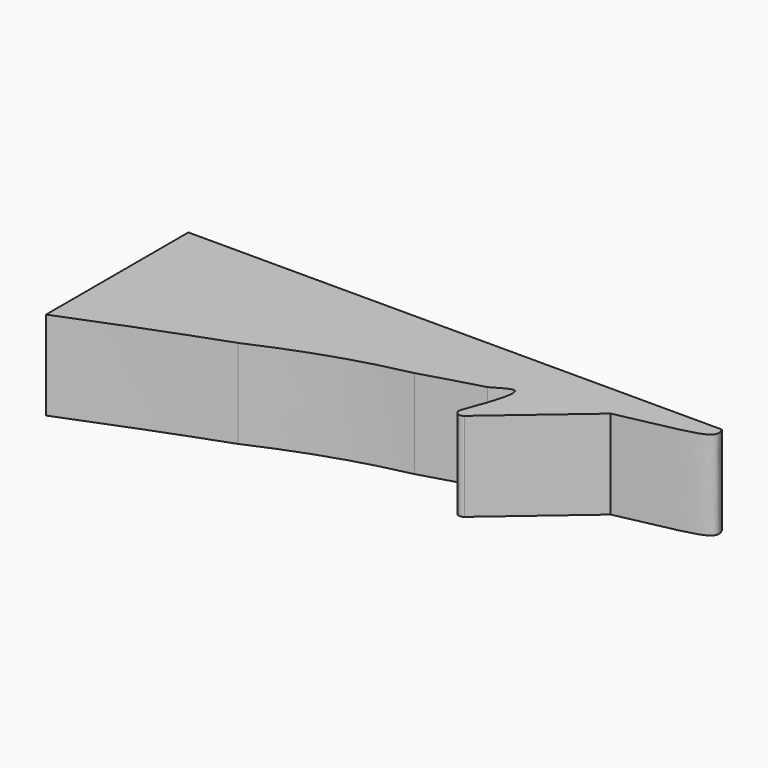
from build123d import *

# Parameters (mm, degrees)
F1_DEPTH = 5
F2_R     = 0.3


with BuildPart() as f1:
    # F0 (on Top) → F1 (new body)
    with BuildSketch(Plane.XY):
        with BuildLine():
            Line((-12.8448276287, 10), (-12.8448276287, 0))
            add(Edge.make_bspline(
                [(-12.8448276287, 0), (-9.8167225051, 1.2233372678), (-7.0656070058, 2.2673426008), (-4.5708535923, 3.1612152234)],
                knots=[0, 0, 0, 0, 0.0854842722, 0.0854842722, 0.0854842722, 0.0854842722], degree=3))
            add(Edge.make_bspline(
                [(3.2532843258, 5.7553424352), (1.4931484449, 5.3762843113), (-0.9094261424, 4.7907791839), (-4.5708535923, 3.1612152234)],
                knots=[0.6440735312, 0.6440735312, 0.6440735312, 0.6440735312, 1, 1, 1, 1], degree=3))
            add(Edge.make_bspline(
                [(3.2532843258, 5.7553424352), (4.4585862381, 6.1195769912), (5.5721183038, 6.4380970419), (6.5990150906, 6.7181708025)],
                knots=[0.1867970441, 0.1867970441, 0.1867970441, 0.1867970441, 0.240570966, 0.240570966, 0.240570966, 0.240570966], degree=3))
            add(Edge.make_bspline(
                [(7.8262856821, 7.0457379587), (7.7555120286, 7.4871986278), (7.1974306149, 7.0355157952), (6.5990150906, 6.7181708025)],
                knots=[0.1655849362, 0.1655849362, 0.1655849362, 0.1655849362, 0.3551896985, 0.3551896985, 0.3551896985, 0.3551896985], degree=3))
            add(Edge.make_bspline(
                [(7.8262856749, 7.0457379583), (9.6428682605, 7.5198578193), (11.1544603831, 7.8660611289), (12.3962601994, 8.1341724876)],
                knots=[0.2627592696, 0.2627592696, 0.2627592696, 0.2627592696, 0.3649105281, 0.3649105281, 0.3649105281, 0.3649105281], degree=3))
            add(Edge.make_bspline(
                [(12.3962601994, 8.1341724876), (16.4549291504, 9.0104612686), (17.6316003571, 9.0525497371), (17.1551723713, 10)],
                knots=[0.3649105281, 0.3649105281, 0.3649105281, 0.3649105281, 0.6987792691, 0.6987792691, 0.6987792691, 0.6987792691], degree=3))
            Line((17.1551723713, 10), (-12.8448276287, 10))
        make_face()
        with BuildLine():
            Line((6.5990150906, 3.1612152234), (12.3962601994, 8.1341724876))
            add(Edge.make_bspline(
                [(7.8262856749, 7.0457379583), (9.6428682605, 7.5198578193), (11.1544603831, 7.8660611289), (12.3962601994, 8.1341724876)],
                knots=[0.2627592696, 0.2627592696, 0.2627592696, 0.2627592696, 0.3649105281, 0.3649105281, 0.3649105281, 0.3649105281], degree=3))
            add(Edge.make_bspline(
                [(6.5990150906, 3.1612152234), (7.5782406819, 5.5934843751), (7.8880934698, 6.6602031449), (7.8262856821, 7.0457379587)],
                knots=[0, 0, 0, 0, 0.1655849362, 0.1655849362, 0.1655849362, 0.1655849362], degree=3))
        make_face()
    extrude(amount=F1_DEPTH)

    # F2
    f2_edges = [f1.edges().sort_by_distance(p)[0] for p in [
        (6.599015, 3.161215, 2.5),
    ]]
    fillet(f2_edges, radius=F2_R)


solid = f1.part
